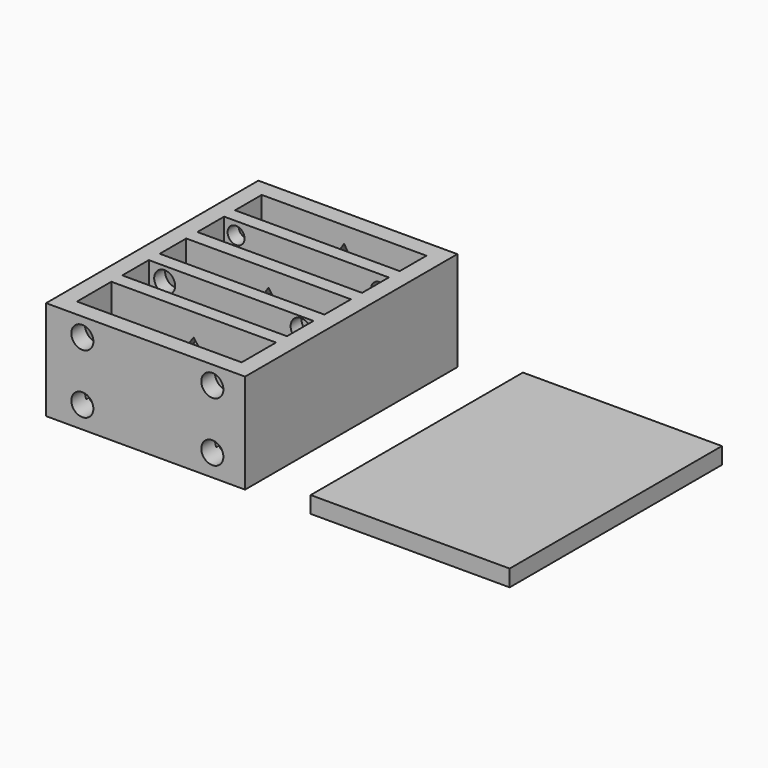
from build123d import *

# Parameters (mm, degrees)
F0_W      = 6.5682004154
F0_H      = 6.5745791972
F0_W_2    = 6.5704989195
F0_H_2    = 6.5824283838
F0_W_3    = 63.0613006651
F0_H_3    = 5.2373763174
F0_H_4    = 5.3380923346
F0_H_5    = 5.2373749204
F0_H_6    = 5.2373744547
F1_DEPTH  = 38.1
F0_H_7    = 12.7722844481
F0_H_8    = 12.791281566
F0_H_9    = 12.6905632205
F0_H_10   = 12.6905627549
F0_H_11   = 16.4480824023
F2_DEPTH  = 6.35
F4_DEPTH  = 12.7
F5_R      = 3.2467068395
F6_DEPTH  = 7.62
F8_DEPTH  = 7.62
F9_R      = 4.0110707537
F10_DEPTH = 7.62
F12_DEPTH = 7.62
F13_R     = 4.2287470851
F14_DEPTH = 7.874
F0_W_4    = 76.2
F0_H_12   = 101.6
F15_DEPTH = 6.35


with BuildPart() as f1:
    # F0 (on Top) → F1 (new body)
    with BuildSketch(Plane.XY):
        with Locations((-34.8158997923, -47.5127104014)):
            Rectangle(F0_W, F0_H)
        with Locations((34.8147505403, 47.5087858081)):
            Rectangle(F0_W_2, F0_H_2)
        with Locations((34.8147505403, -47.5127104014)):
            Rectangle(F0_W_2, F0_H)
        with Locations((-34.8158997923, 47.5087858081)):
            Rectangle(F0_W, F0_H_2)
        with Locations((-0.0011492521, -47.5127104014)):
            Rectangle(F0_W_3, F0_H)
        with Locations((-0.0011492521, 47.5087858081)):
            Rectangle(F0_W_3, F0_H_2)
        Polygon((31.5295010805, -44.2254208028), (38.1, -44.2254208028), (38.1, 44.2175716162), (31.5295010805, 44.2175716162), (31.5295010805, 31.445287168), (31.5295010805, 26.2079108506), (31.5295010805, 13.4166292846), (31.5295010805, 8.0785369501), (31.5295010805, -4.6120262705), (31.5295010805, -9.8494011909), (31.5295010805, -22.5399639457), (31.5295010805, -27.7773384005), align=None)
        Polygon((-38.1, -44.2254208028), (-31.5317995846, -44.2254208028), (-31.5317995846, -27.7773384005), (-31.5317995846, -22.5399639457), (-31.5317995846, -9.8494011909), (-31.5317995846, -4.6120262705), (-31.5317995846, 8.0785369501), (-31.5317995846, 13.4166292846), (-31.5317995846, 26.2079108506), (-31.5317995846, 31.445287168), (-31.5317995846, 44.2175716162), (-38.1, 44.2175716162), align=None)
        with Locations((-0.0011492521, 28.8265990093)):
            Rectangle(F0_W_3, F0_H_3)
        with Locations((-0.0011492521, 10.7475831173)):
            Rectangle(F0_W_3, F0_H_4)
        with Locations((-0.0011492521, -7.2307137307)):
            Rectangle(F0_W_3, F0_H_5)
        with Locations((-0.0011492521, -25.1586511731)):
            Rectangle(F0_W_3, F0_H_6)
    extrude(amount=F1_DEPTH)

    # F0 (on Top) → F2 (join)
    with BuildSketch(Plane.XY):
        with Locations((-0.0011492521, 37.8314293921)):
            Rectangle(F0_W_3, F0_H_7)
        with Locations((-0.0011492521, 19.8122700676)):
            Rectangle(F0_W_3, F0_H_8)
        with Locations((-0.0011492521, 1.7332553398)):
            Rectangle(F0_W_3, F0_H_9)
        with Locations((-0.0011492521, -16.1946825683)):
            Rectangle(F0_W_3, F0_H_10)
        with Locations((-0.0011492521, -36.0013796017)):
            Rectangle(F0_W_3, F0_H_11)
    extrude(amount=F2_DEPTH)

    # F3 (on face) → F4 (cut)
    with BuildSketch(Plane(origin=(0, 50.8, 0), x_dir=(-1, 0, 0), z_dir=(0, 1, 0))):
        Polygon((8.4496559575, 19.05), (0, 31.867492944), (0, 19.05), align=None)
        Polygon((0, 19.05), (0, 31.867492944), (-8.4557794034, 19.05), align=None)
        Polygon((8.4496559575, 19.05), (0, 19.05), (0, 10.7070542872), align=None)
        Polygon((0, 10.7070542872), (0, 19.05), (-8.4557794034, 19.05), align=None)
    extrude(amount=-F4_DEPTH, mode=Mode.SUBTRACT)

    # F5 (on face) → F6 (cut)
    with BuildSketch(Plane(origin=(0, 31.445287168, 0), x_dir=(-1, 0, 0), z_dir=(0, 1, 0))):
        with Locations((-27.1007362753, 11.141131632)):
            Circle(F5_R)
        with Locations((-27.9942583293, 32.138876617)):
            Circle(F5_R)
        with Locations((26.9572865218, 33.2557782531)):
            Circle(F5_R)
        with Locations((26.5105273575, 10.2476105094)):
            Circle(F5_R)
    extrude(amount=-F6_DEPTH, mode=Mode.SUBTRACT)

    # F7 (on face) → F8 (cut)
    with BuildSketch(Plane(origin=(0, 13.4166292846, 0), x_dir=(-1, 0, 0), z_dir=(0, 1, 0))):
        Polygon((-8.4612863138, 19.1561579704), (0.0011492521, 19.1561579704), (0.0011492521, 31.8320021033), align=None)
        Polygon((-8.4612863138, 19.1561579704), (0.0011492521, 10.8450967818), (0.0011492521, 19.1561579704), align=None)
        Polygon((0.0011492521, 31.8320021033), (0.0011492521, 19.1561579704), (8.4477588534, 19.1561579704), align=None)
        Polygon((0.0011492521, 19.1561579704), (0.0011492521, 10.8450967818), (8.4477588534, 19.1561579704), align=None)
    extrude(amount=-F8_DEPTH, mode=Mode.SUBTRACT)

    # F9 (on face) → F10 (cut)
    with BuildSketch(Plane(origin=(0, -4.6120262705, 0), x_dir=(-1, 0, 0), z_dir=(0, 1, 0))):
        with Locations((-26.5282280743, 12.0090292767)):
            Circle(F9_R)
        with Locations((-26.7980415374, 33.5041955113)):
            Circle(F9_R)
        with Locations((26.3552796096, 11.1995879561)):
            Circle(F9_R)
        with Locations((25.4559013993, 32.6947569847)):
            Circle(F9_R)
    extrude(amount=-F10_DEPTH, mode=Mode.SUBTRACT)

    # F11 (on face) → F12 (cut)
    with BuildSketch(Plane(origin=(0, -22.5399639457, 0), x_dir=(-1, 0, 0), z_dir=(0, 1, 0))):
        Polygon((-8.465975523, 18.5493603349), (0, 10.6839193031), (0, 18.5493603349), align=None)
        Polygon((0, 18.5493603349), (0, 10.6839193031), (8.4565812722, 18.5493603349), align=None)
        Polygon((0, 29.5175481588), (0, 18.5493603349), (8.4565812722, 18.5493603349), align=None)
        Polygon((-8.465975523, 18.5493603349), (0, 18.5493603349), (0, 29.5175481588), align=None)
    extrude(amount=-F12_DEPTH, mode=Mode.SUBTRACT)

    # F13 (on face) → F14 (cut)
    with BuildSketch(Plane.XZ.offset(50.8)):
        with Locations((-24.2144539952, 8.3860587329)):
            Circle(F13_R)
        with Locations((-24.2144539952, 31.0668349266)):
            Circle(F13_R)
        with Locations((25.5647450686, 31.0668349266)):
            Circle(F13_R)
        with Locations((25.5647450686, 8.3860587329)):
            Circle(F13_R)
    extrude(amount=-F14_DEPTH, mode=Mode.SUBTRACT)


with BuildPart() as f15:
    # F0 (on Top) → F15 (new body)
    with BuildSketch(Plane.XY):
        with Locations((101.3137432694, 0)):
            Rectangle(F0_W_4, F0_H_12)
    extrude(amount=F15_DEPTH)


solid = Compound([f1.part, f15.part])
